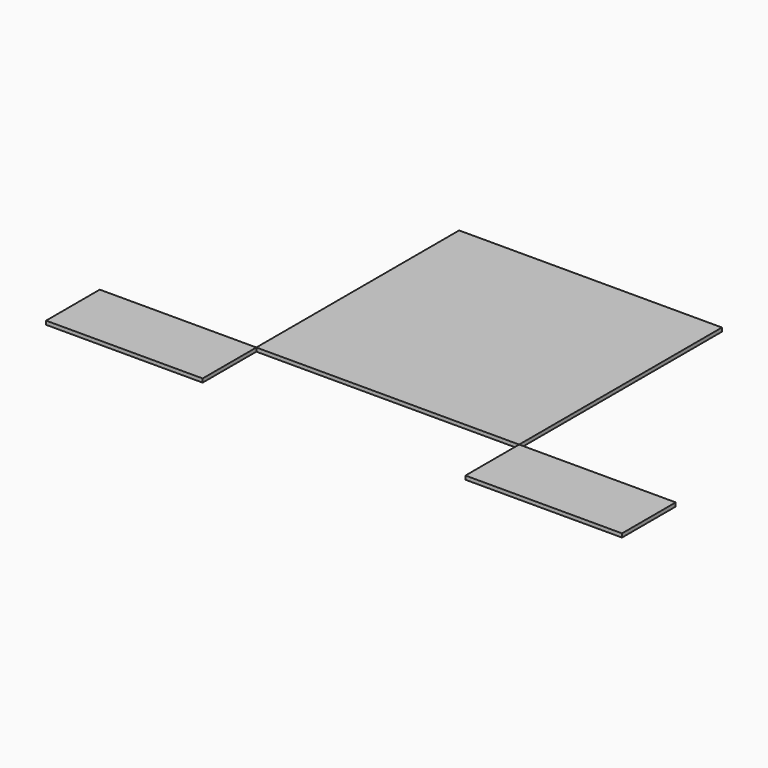
from build123d import *

# Parameters (mm, degrees)
F0_W     = 1066.8
F0_H     = 457.2
F0_W_2   = 1790.7
F0_H_2   = 1727.2
F1_DEPTH = 25.4


with BuildPart() as f1:
    # F0 (on Top) → F1 (new body)
    with BuildSketch(Plane.XY):
        with Locations((1928.947194, -841.710831)):
            Rectangle(F0_W, F0_H)
        with Locations((-928.552806, -841.710831)):
            Rectangle(F0_W, F0_H)
        with Locations((500.197194, 250.489169)):
            Rectangle(F0_W_2, F0_H_2)
    extrude(amount=F1_DEPTH)


solid = f1.part
